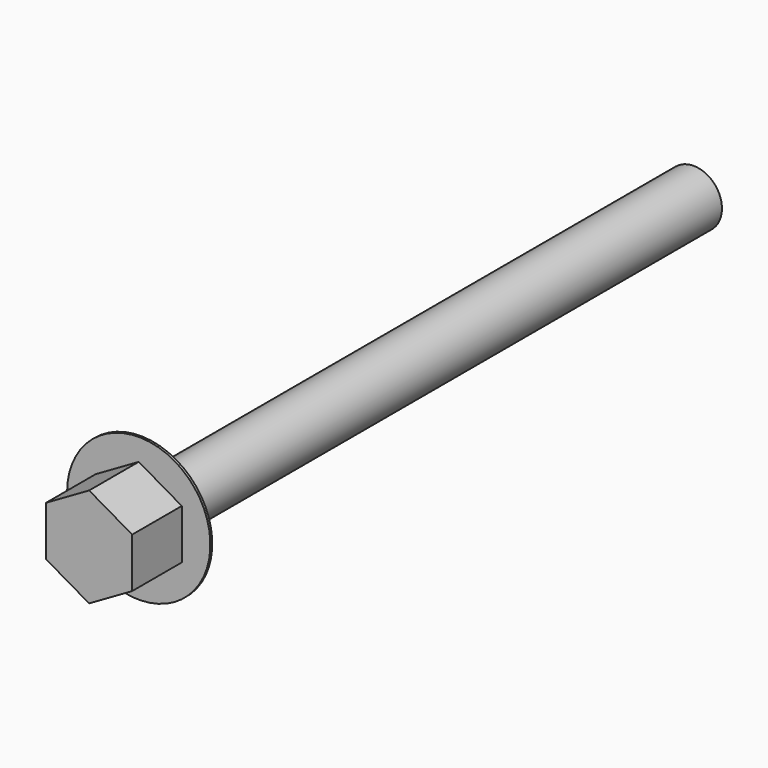
from build123d import *

# Parameters (mm, degrees)
F1_DEPTH = 10.16
F3_R     = 11.74115
F4_DEPTH = 0.381
F2_R     = 4.64185
F5_DEPTH = 113.665


with BuildPart() as f1:
    # F0 (on Front) → F1 (new body)
    with BuildSketch(Plane.XZ):
        Polygon((7.05485, -4.07312), (7.05485, 4.07312), (0, 8.146239), (-7.05485, 4.07312), (-7.05485, -4.07312), (0, -8.146239), align=None)
    extrude(amount=-F1_DEPTH)

    # F2 (on face) → F5 (join)
    with BuildSketch(Plane(origin=(0, 10.16, 0), x_dir=(-1, 0, 0), z_dir=(0, 1, 0))):
        Circle(F2_R)
    extrude(amount=F5_DEPTH)


with BuildPart() as f4:
    # F3 (on face) → F4 (new body)
    with BuildSketch(Plane(origin=(0, 10.16, 0), x_dir=(-1, 0, 0), z_dir=(0, 1, 0))):
        Circle(F3_R)
        Polygon((-7.05485, -4.07312), (-7.05485, 4.07312), (0, 8.146239), (7.05485, 4.07312), (7.05485, -4.07312), (0, -8.146239), align=None, mode=Mode.SUBTRACT)
    extrude(amount=F4_DEPTH)


solid = Compound([f1.part, f4.part])
